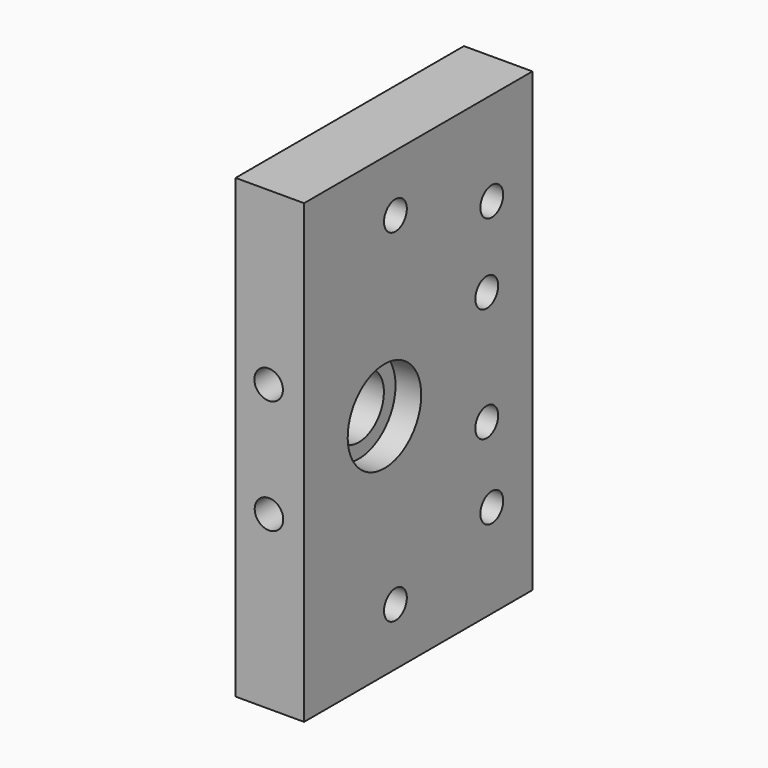
from build123d import *

# Parameters (mm, degrees)
SKETCH010_W     = 80
SKETCH010_H     = 50
SKETCH010_R     = 2.5
SKETCH010_R_2   = 5.5
PAD002_DEPTH    = 12
SKETCH011_R     = 2.5
POCKET006_DEPTH = 11
SKETCH012_R     = 8.05
POCKET007_DEPTH = 4.5
SKETCH013_R     = 4.6
SKETCH013_R_2   = 4.624594
SKETCH013_R_3   = 4.583454
SKETCH013_R_4   = 4.624604
POCKET008_DEPTH = 1.55


with BuildPart() as part:
    # Sketch010 → Pad002 (new body)
    with BuildSketch(Plane(origin=(88, 410, 180), x_dir=(0, 0, 1), z_dir=(1, 0, 0))):
        with Locations((40, 25)):
            Rectangle(SKETCH010_W, SKETCH010_H)
        with Locations((10, 30)):
            Circle(SKETCH010_R, mode=Mode.SUBTRACT)
        with Locations((30, 10)):
            Circle(SKETCH010_R, mode=Mode.SUBTRACT)
        with Locations((16.4, 8.9)):
            Circle(SKETCH010_R, mode=Mode.SUBTRACT)
        with Locations((50, 10)):
            Circle(SKETCH010_R, mode=Mode.SUBTRACT)
        with Locations((63.6, 8.9)):
            Circle(SKETCH010_R, mode=Mode.SUBTRACT)
        with Locations((70, 30)):
            Circle(SKETCH010_R, mode=Mode.SUBTRACT)
        with Locations((40, 32.4)):
            Circle(SKETCH010_R_2, mode=Mode.SUBTRACT)
    extrude(amount=PAD002_DEPTH)

    # Sketch011 → Pocket006 (cut)
    with BuildSketch(Plane(origin=(88, 360, 180), x_dir=(0, 0, -1), z_dir=(0, -1, 0))):
        with Locations((-30.033846, 5.850095)):
            Circle(SKETCH011_R)
        with Locations((-50.003807, 5.788844)):
            Circle(SKETCH011_R)
    extrude(amount=-POCKET006_DEPTH, mode=Mode.SUBTRACT)

    # Sketch012 → Pocket007 (cut)
    with BuildSketch(Plane(origin=(100, 410, 180), x_dir=(0, 0, 1), z_dir=(1, 0, 0))):
        with Locations((40, 32.4)):
            Circle(SKETCH012_R)
    extrude(amount=-POCKET007_DEPTH, mode=Mode.SUBTRACT)

    # Sketch013 → Pocket008 (cut)
    with BuildSketch(Plane(origin=(88, 410, 180), x_dir=(0, 0, 1), z_dir=(-1, 0, 0))):
        with Locations((10, -30)):
            Circle(SKETCH013_R)
        with Locations((70, -30)):
            Circle(SKETCH013_R_2)
        with Locations((30, -10)):
            Circle(SKETCH013_R_3)
        with Locations((50, -10)):
            Circle(SKETCH013_R_4)
    extrude(amount=-POCKET008_DEPTH, mode=Mode.SUBTRACT)


solid = part.part
